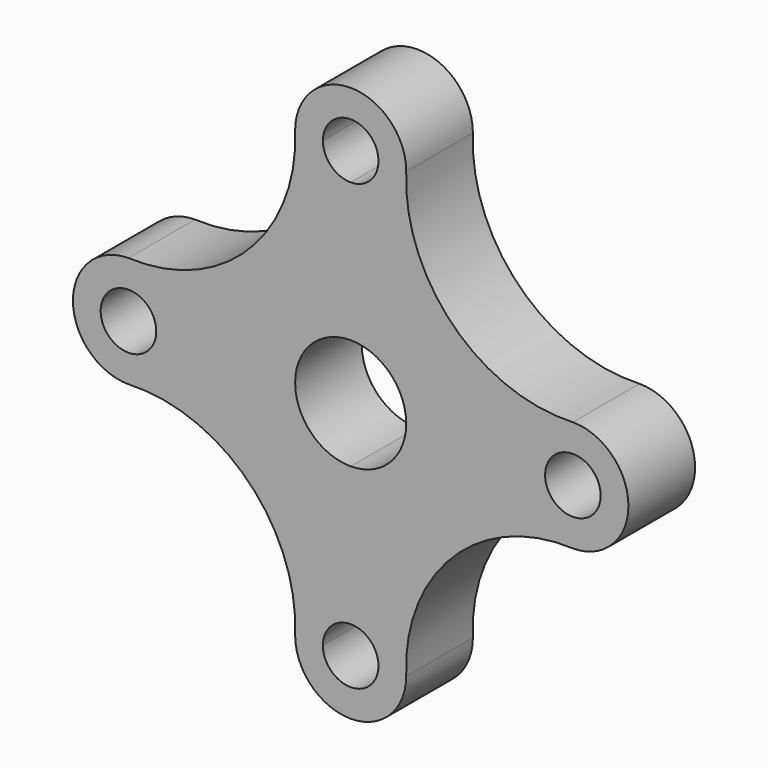
from build123d import *

# Parameters (mm, degrees)
F0_R     = 6.35
F1_DEPTH = 19.05


with BuildPart() as f1:
    # F0 (on Front) → F1 (new body)
    with BuildSketch(Plane.XZ):
        with Locations((-50.8, 0)):
            Circle(F0_R)
        with BuildLine():
            ThreePointArc((44.45, 0), (50.8, -6.35), (57.15, 0))
            ThreePointArc((57.15, 0), (50.8, 6.35), (44.45, 0))
        make_face()
        with BuildLine():
            ThreePointArc((-12.7, 50.8), (-23.358147, 23.358147), (-50.8, 12.7))
            ThreePointArc((-50.8, 12.7), (-63.5, 0), (-50.8, -12.7))
            ThreePointArc((-50.8, -12.7), (-23.358147, -23.358147), (-12.7, -50.8))
            ThreePointArc((-12.7, -50.8), (0, -63.5), (12.7, -50.8))
            ThreePointArc((12.7, -50.8), (23.358147, -23.358147), (50.8, -12.7))
            ThreePointArc((50.8, -12.7), (63.5, 0), (50.8, 12.7))
            ThreePointArc((50.8, 12.7), (23.358147, 23.358147), (12.7, 50.8))
            ThreePointArc((12.7, 50.8), (0, 63.5), (-12.7, 50.8))
        make_face()
        with BuildLine():
            ThreePointArc((-6.35, -50.8), (-4.490128, -46.309872), (0, -44.45))
            ThreePointArc((0, -44.45), (4.490128, -46.309872), (6.35, -50.8))
            ThreePointArc((6.35, -50.8), (0, -57.15), (-6.35, -50.8))
        make_face(mode=Mode.SUBTRACT)
        with Locations((-50.8, 0)):
            Circle(F0_R, mode=Mode.SUBTRACT)
        with BuildLine():
            ThreePointArc((0, 12.7), (8.980256, 8.980256), (12.7, 0))
            ThreePointArc((12.7, 0), (8.980256, -8.980256), (0, -12.7))
            ThreePointArc((0, -12.7), (-12.7, 0), (0, 12.7))
        make_face(mode=Mode.SUBTRACT)
        with BuildLine():
            ThreePointArc((44.45, 0), (50.8, 6.35), (57.15, 0))
            ThreePointArc((57.15, 0), (50.8, -6.35), (44.45, 0))
        make_face(mode=Mode.SUBTRACT)
        with BuildLine():
            ThreePointArc((6.35, 50.8), (4.490128, 46.309872), (0, 44.45))
            ThreePointArc((0, 44.45), (-4.490128, 46.309872), (-6.35, 50.8))
            ThreePointArc((-6.35, 50.8), (0, 57.15), (6.35, 50.8))
        make_face(mode=Mode.SUBTRACT)
    extrude(amount=F1_DEPTH)


solid = f1.part
